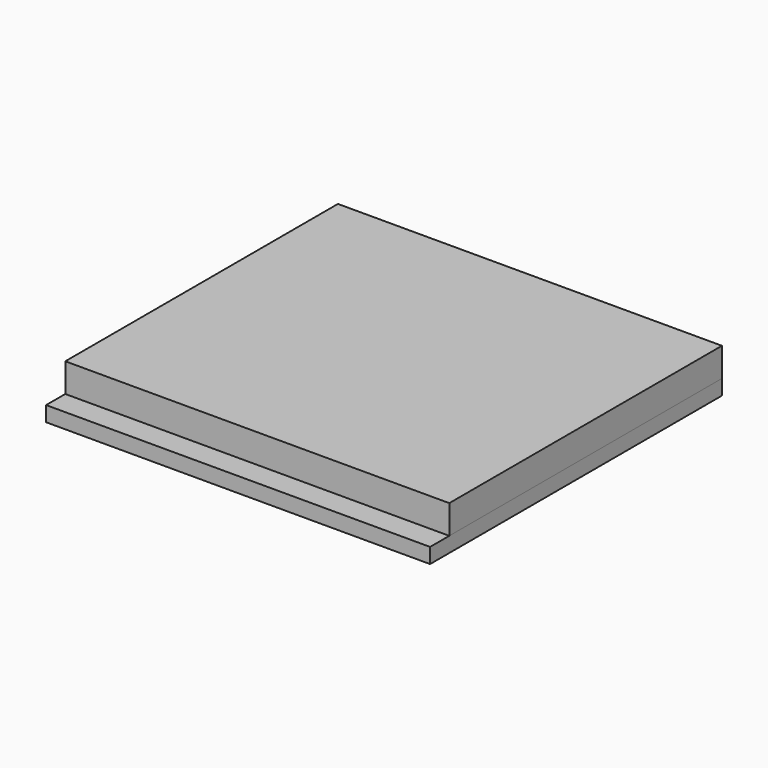
from build123d import *

# Parameters (mm, degrees)
F0_W     = 40
F0_H     = 38
F1_DEPTH = 1.5748
F2_W     = 40
F2_H     = 35.5
F3_DEPTH = 3


with BuildPart() as f1:
    # F0 (on Top) → F1 (new body)
    with BuildSketch(Plane.XY):
        Rectangle(F0_W, F0_H)
    extrude(amount=F1_DEPTH)


with BuildPart() as f3:
    # F2 (on face) → F3 (new body)
    with BuildSketch(Plane.XY.offset(1.5748)):
        with Locations((0, 1.25)):
            Rectangle(F2_W, F2_H)
    extrude(amount=F3_DEPTH)


solid = Compound([f1.part, f3.part])
